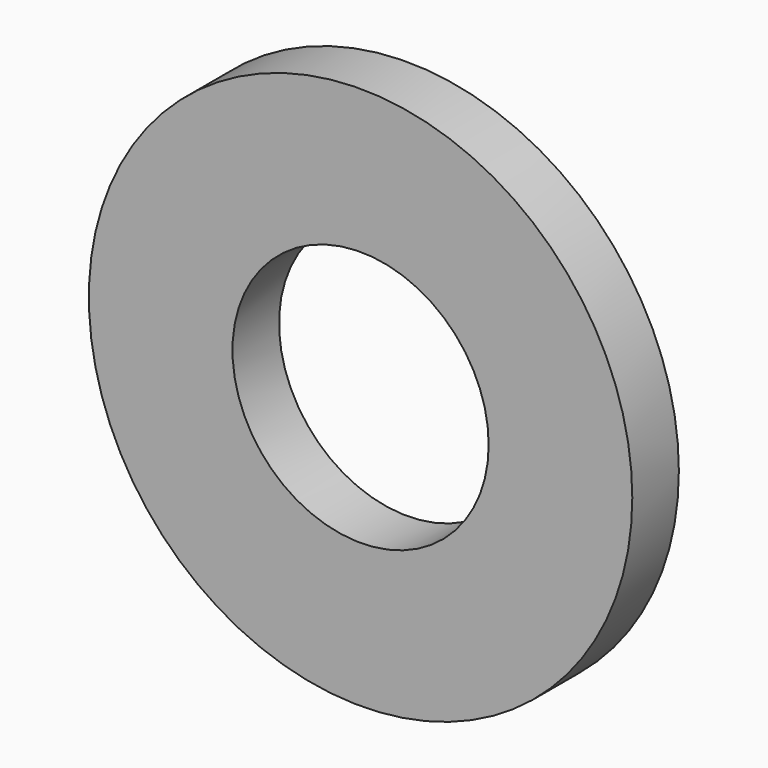
from build123d import *

# Parameters (mm, degrees)
CYLINDER002_R     = 1.65
CYLINDER002_DEPTH = 0.75
CYLINDER_R        = 3.5
CYLINDER_DEPTH    = 0.75


with BuildPart() as cylinder002:
    # Cylinder002 → Cylinder002 (new body)
    with BuildSketch(Plane(origin=(-56.26, 72.325, 15.8), x_dir=(1, 0, 0), z_dir=(0, 1, 0))):
        Circle(CYLINDER002_R)
    extrude(amount=CYLINDER002_DEPTH)


with BuildPart() as cut001003:
    # Cylinder → Cylinder (new body)
    with BuildSketch(Plane(origin=(-56.26, 72.325, 15.8), x_dir=(1, 0, 0), z_dir=(0, 1, 0))):
        Circle(CYLINDER_R)
    extrude(amount=CYLINDER_DEPTH)

    # Cut001003: cut Cylinder002
    add(cylinder002.part, mode=Mode.SUBTRACT)


solid = cut001003.part
